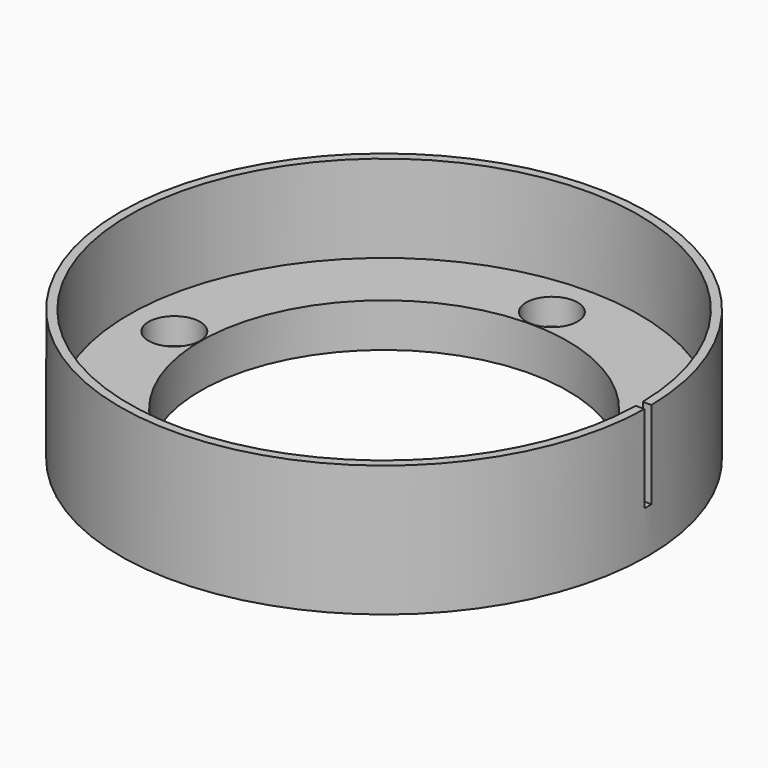
from build123d import *

# Parameters (mm, degrees)
SKETCH001_R     = 1.7
POCKET_DEPTH    = 5.001
SKETCH002_R     = 2.95
POCKET001_DEPTH = 3
SKETCH003_W     = 10
SKETCH003_H     = 1
POCKET002_DEPTH = 10


with BuildPart() as part:
    # Sketch → Revolution (revolve)
    with BuildSketch(Plane.XZ):
        Polygon((30.2, 0), (30.2, 15), (29.2, 15), (29.2, 5), (21, 5), (21, 0), align=None)
    revolve(axis=Axis((0, 0, 0), (0, 0, 1)))

    # Sketch001 (on Face4 of Revolution) → Pocket (cut, through all)
    with BuildSketch(Plane(origin=(0, 0, 5), x_dir=(-1, 0, 0), z_dir=(0, 0, 1))):
        with Locations((24, 0)):
            Circle(SKETCH001_R)
        with Locations((0, 24)):
            Circle(SKETCH001_R)
        with Locations((-24, 0)):
            Circle(SKETCH001_R)
        with Locations((0, -24)):
            Circle(SKETCH001_R)
    extrude(amount=-POCKET_DEPTH, mode=Mode.SUBTRACT)

    # Sketch002 (on Face10 of Pocket) → Pocket001 (cut)
    with BuildSketch(Plane(origin=(0, 0, 5), x_dir=(-1, 0, 0), z_dir=(0, 0, 1))):
        with Locations((0, 24)):
            Circle(SKETCH002_R)
        with Locations((-24, 0)):
            Circle(SKETCH002_R)
        with Locations((0, -24)):
            Circle(SKETCH002_R)
        with Locations((24, 0)):
            Circle(SKETCH002_R)
    extrude(amount=-POCKET001_DEPTH, mode=Mode.SUBTRACT)

    # Sketch003 (on Face3 of Pocket001) → Pocket002 (cut)
    with BuildSketch(Plane(origin=(0, 0, 15), x_dir=(-1, 0, 0), z_dir=(0, 0, 1))):
        with Locations((-30, 0)):
            Rectangle(SKETCH003_W, SKETCH003_H)
    extrude(amount=-POCKET002_DEPTH, mode=Mode.SUBTRACT)


solid = part.part
